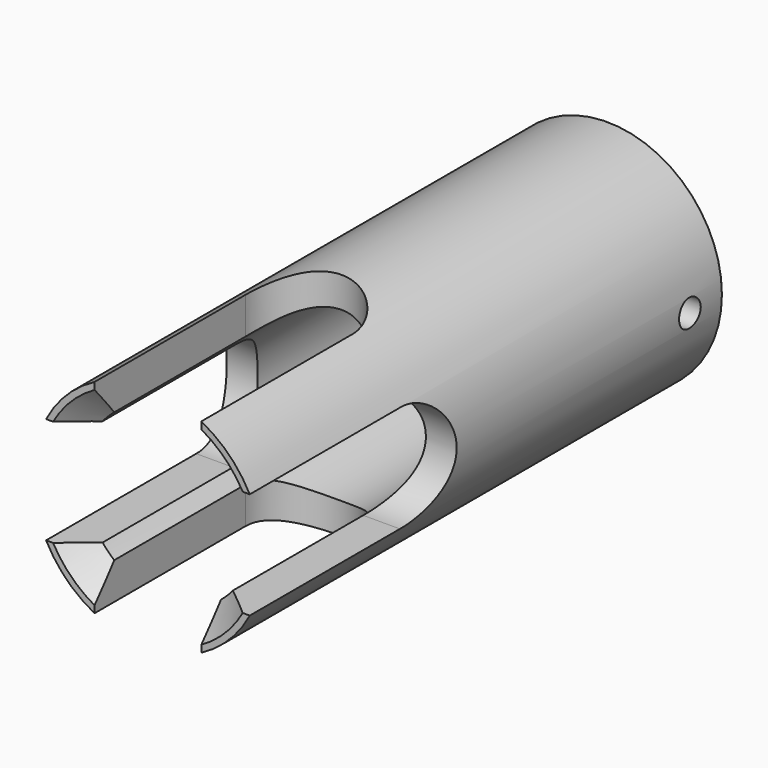
from build123d import *

# Parameters (mm, degrees)
F0_R      = 14
F0_R_2    = 10.25
F1_DEPTH  = 70
F4_DEPTH  = 40
F5_SIZE   = 3
F6_D      = 3.3
F7_R      = 0.2
F10_DEPTH = 40


with BuildPart() as f1:
    # F0 (on Front) → F1 (new body)
    with BuildSketch(Plane.XZ):
        Circle(F0_R)
        Circle(F0_R_2, mode=Mode.SUBTRACT)
    extrude(amount=F1_DEPTH)

    # F3 (on offset) → F4 (cut)
    with BuildSketch(Plane.YZ.offset(14)):
        with BuildLine():
            Line((-70.0558224349, -6.4983871577), (-47.1447907046, -6.4983871577))
            ThreePointArc((-47.1447907046, -6.4983871577), (-40.5004032231, -0.0723998436), (-47, 6.5))
            Line((-47, 6.5), (-70.0558218767, 6.5))
            Line((-70.0558218767, 6.5), (-70.0558224349, -6.4983871577))
        make_face()
    extrude(amount=-F4_DEPTH, mode=Mode.SUBTRACT)

    # F5
    f5_edges = [f1.edges().sort_by_distance(p)[0] for p in [
        (0, -70, 10.25),
        (0, -70, -10.25),
    ]]
    chamfer(f5_edges, length=F5_SIZE)

    # F6 (through all)
    with Locations(Plane.YZ.offset(14)):
        with Locations((-5, 0)):
            Hole(F6_D / 2)

    # F7
    f7_edges = [f1.edges().sort_by_distance(p)[0] for p in [
        (-14, 0, 0),
    ]]
    fillet(f7_edges, radius=F7_R)

    # F9 (on offset) → F10 (cut)
    with BuildSketch(Plane.XY.offset(14)):
        with BuildLine():
            Line((6.5, -70.223480463), (6.5, -47))
            ThreePointArc((6.5, -47), (0, -40.5), (-6.5, -47))
            Line((-6.5, -47), (-6.5, -70.1674371958))
            Line((-6.5, -70.1674371958), (6.5, -70.223480463))
        make_face()
    extrude(amount=-F10_DEPTH, mode=Mode.SUBTRACT)


solid = f1.part
